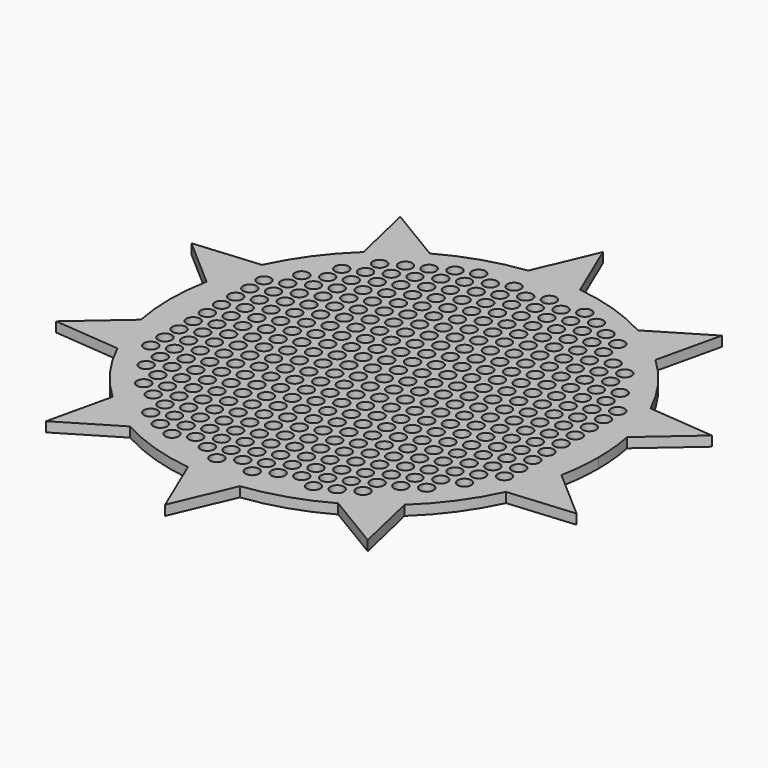
from build123d import *

# Parameters (mm, degrees)
F0_R     = 2.5
F1_DEPTH = 0.127
F3_R     = 0.0875
F4_DEPTH = 0.128


with BuildPart() as f1:
    # F0 (on Top) → F1 (new body)
    with BuildSketch(Plane.XY):
        with BuildLine():
            ThreePointArc((2.698999, -0.527168), (2.73722, -0.264814), (2.75, 0))
            ThreePointArc((2.75, 0), (2.73722, 0.264814), (2.698999, 0.527168))
            ThreePointArc((2.698999, 0.527168), (2.615405, 0.849797), (2.493397, 1.159944))
            ThreePointArc((2.493397, 1.159944), (2.224797, 1.616409), (1.873675, 2.012919))
            ThreePointArc((1.873675, 2.012919), (1.616409, 2.224797), (1.335403, 2.403997))
            ThreePointArc((1.335403, 2.403997), (0.849797, 2.615405), (0.33267, 2.729804))
            ThreePointArc((0.33267, 2.729804), (0, 2.75), (-0.33267, 2.729804))
            ThreePointArc((-0.33267, 2.729804), (-0.849797, 2.615405), (-1.335403, 2.403997))
            ThreePointArc((-1.335403, 2.403997), (-1.616409, 2.224797), (-1.873675, 2.012919))
            ThreePointArc((-1.873675, 2.012919), (-2.224797, 1.616409), (-2.493397, 1.159944))
            ThreePointArc((-2.493397, 1.159944), (-2.615405, 0.849797), (-2.698999, 0.527168))
            ThreePointArc((-2.698999, 0.527168), (-2.75, 0), (-2.698999, -0.527168))
            ThreePointArc((-2.698999, -0.527168), (-2.615405, -0.849797), (-2.493397, -1.159944))
            ThreePointArc((-2.493397, -1.159944), (-2.224797, -1.616409), (-1.873675, -2.012919))
            ThreePointArc((-1.873675, -2.012919), (-1.616409, -2.224797), (-1.335403, -2.403997))
            ThreePointArc((-1.335403, -2.403997), (-0.849797, -2.615405), (-0.33267, -2.729804))
            ThreePointArc((-0.33267, -2.729804), (0, -2.75), (0.33267, -2.729804))
            ThreePointArc((0.33267, -2.729804), (0.849797, -2.615405), (1.335403, -2.403997))
            ThreePointArc((1.335403, -2.403997), (1.616409, -2.224797), (1.873675, -2.012919))
            ThreePointArc((1.873675, -2.012919), (2.224797, -1.616409), (2.493397, -1.159944))
            ThreePointArc((2.493397, -1.159944), (2.615405, -0.849797), (2.698999, -0.527168))
        make_face()
        Circle(F0_R, mode=Mode.SUBTRACT)
        with BuildLine():
            ThreePointArc((2.493397, 1.159944), (2.615405, 0.849797), (2.698999, 0.527168))
            Line((2.698999, 0.527168), (3.34011, 1.085268))
            Line((3.34011, 1.085268), (2.493397, 1.159944))
        make_face()
        with BuildLine():
            Line((3.34011, -1.085268), (2.698999, -0.527168))
            ThreePointArc((2.698999, -0.527168), (2.615405, -0.849797), (2.493397, -1.159944))
            Line((2.493397, -1.159944), (3.34011, -1.085268))
        make_face()
        with BuildLine():
            ThreePointArc((1.335403, 2.403997), (1.616409, 2.224797), (1.873675, 2.012919))
            Line((1.873675, 2.012919), (2.064302, 2.841268))
            Line((2.064302, 2.841268), (1.335403, 2.403997))
        make_face()
        with BuildLine():
            Line((2.064302, -2.841268), (1.873675, -2.012919))
            ThreePointArc((1.873675, -2.012919), (1.616409, -2.224797), (1.335403, -2.403997))
            Line((1.335403, -2.403997), (2.064302, -2.841268))
        make_face()
        with BuildLine():
            ThreePointArc((-0.33267, 2.729804), (0, 2.75), (0.33267, 2.729804))
            Line((0.33267, 2.729804), (0, 3.512))
            Line((0, 3.512), (-0.33267, 2.729804))
        make_face()
        with BuildLine():
            Line((0, -3.512), (0.33267, -2.729804))
            ThreePointArc((0.33267, -2.729804), (0, -2.75), (-0.33267, -2.729804))
            Line((-0.33267, -2.729804), (0, -3.512))
        make_face()
        with BuildLine():
            ThreePointArc((-1.873675, 2.012919), (-1.616409, 2.224797), (-1.335403, 2.403997))
            Line((-1.335403, 2.403997), (-2.064302, 2.841268))
            Line((-2.064302, 2.841268), (-1.873675, 2.012919))
        make_face()
        with BuildLine():
            Line((-2.064302, -2.841268), (-1.335403, -2.403997))
            ThreePointArc((-1.335403, -2.403997), (-1.616409, -2.224797), (-1.873675, -2.012919))
            Line((-1.873675, -2.012919), (-2.064302, -2.841268))
        make_face()
        with BuildLine():
            ThreePointArc((-2.698999, 0.527168), (-2.615405, 0.849797), (-2.493397, 1.159944))
            Line((-2.493397, 1.159944), (-3.34011, 1.085268))
            Line((-3.34011, 1.085268), (-2.698999, 0.527168))
        make_face()
        with BuildLine():
            Line((-3.34011, -1.085268), (-2.493397, -1.159944))
            ThreePointArc((-2.493397, -1.159944), (-2.615405, -0.849797), (-2.698999, -0.527168))
            Line((-2.698999, -0.527168), (-3.34011, -1.085268))
        make_face()
        Circle(F0_R)
    extrude(amount=F1_DEPTH)

    # F3 (on offset) → F4 (cut, through all)
    with BuildSketch(Plane.XY.offset(0.127)):
        with Locations((-2.041752, 1.233616)):
            Circle(F3_R)
        with Locations((-2.041752, 1.006616)):
            Circle(F3_R)
        with Locations((-2.269084, 0.910866)):
            Circle(F3_R)
        with Locations((-2.041752, 0.779616)):
            Circle(F3_R)
        with Locations((-1.587752, 1.914616)):
            Circle(F3_R)
        with Locations((-1.587752, 1.687616)):
            Circle(F3_R)
        with Locations((-1.815084, 1.591866)):
            Circle(F3_R)
        with Locations((-1.587752, 1.460616)):
            Circle(F3_R)
        with Locations((-1.815084, 1.364866)):
            Circle(F3_R)
        with Locations((-1.587752, 1.233616)):
            Circle(F3_R)
        with Locations((-1.815084, 1.137866)):
            Circle(F3_R)
        with Locations((-1.587752, 1.006616)):
            Circle(F3_R)
        with Locations((-1.815084, 0.910866)):
            Circle(F3_R)
        with Locations((-1.587752, 0.779616)):
            Circle(F3_R)
        with Locations((-1.133752, 2.141616)):
            Circle(F3_R)
        with Locations((-1.361084, 2.045866)):
            Circle(F3_R)
        with Locations((-1.133752, 1.914616)):
            Circle(F3_R)
        with Locations((-1.361084, 1.818866)):
            Circle(F3_R)
        with Locations((-1.133752, 1.687616)):
            Circle(F3_R)
        with Locations((-1.361084, 1.591866)):
            Circle(F3_R)
        with Locations((-1.133752, 1.460616)):
            Circle(F3_R)
        with Locations((-1.361084, 1.364866)):
            Circle(F3_R)
        with Locations((-1.133752, 1.233616)):
            Circle(F3_R)
        with Locations((-1.361084, 1.137866)):
            Circle(F3_R)
        with Locations((-1.133752, 1.006616)):
            Circle(F3_R)
        with Locations((-1.361084, 0.910866)):
            Circle(F3_R)
        with Locations((-1.133752, 0.779616)):
            Circle(F3_R)
        with Locations((-0.679752, 2.368616)):
            Circle(F3_R)
        with Locations((-0.907084, 2.272866)):
            Circle(F3_R)
        with Locations((-0.679752, 2.141616)):
            Circle(F3_R)
        with Locations((-0.907084, 2.045866)):
            Circle(F3_R)
        with Locations((-0.679752, 1.914616)):
            Circle(F3_R)
        with Locations((-0.907084, 1.818866)):
            Circle(F3_R)
        with Locations((-0.679752, 1.687616)):
            Circle(F3_R)
        with Locations((-0.907084, 1.591866)):
            Circle(F3_R)
        with Locations((-0.679752, 1.460616)):
            Circle(F3_R)
        with Locations((-0.907084, 1.364866)):
            Circle(F3_R)
        with Locations((-0.679752, 1.233616)):
            Circle(F3_R)
        with Locations((-0.907084, 1.137866)):
            Circle(F3_R)
        with Locations((-0.679752, 1.006616)):
            Circle(F3_R)
        with Locations((-0.907084, 0.910866)):
            Circle(F3_R)
        with Locations((-0.679752, 0.779616)):
            Circle(F3_R)
        with Locations((-0.225752, 2.368616)):
            Circle(F3_R)
        with Locations((-0.453084, 2.272866)):
            Circle(F3_R)
        with Locations((-0.225752, 2.141616)):
            Circle(F3_R)
        with Locations((-0.453084, 2.045866)):
            Circle(F3_R)
        with Locations((-0.225752, 1.914616)):
            Circle(F3_R)
        with Locations((-0.453084, 1.818866)):
            Circle(F3_R)
        with Locations((-0.225752, 1.687616)):
            Circle(F3_R)
        with Locations((-0.453084, 1.591866)):
            Circle(F3_R)
        with Locations((-0.225752, 1.460616)):
            Circle(F3_R)
        with Locations((-0.453084, 1.364866)):
            Circle(F3_R)
        with Locations((-0.225752, 1.233616)):
            Circle(F3_R)
        with Locations((-0.453084, 1.137866)):
            Circle(F3_R)
        with Locations((-0.225752, 1.006616)):
            Circle(F3_R)
        with Locations((-0.453084, 0.910866)):
            Circle(F3_R)
        with Locations((-0.225752, 0.779616)):
            Circle(F3_R)
        with Locations((0.228248, 2.368616)):
            Circle(F3_R)
        with Locations((0.000916, 2.272866)):
            Circle(F3_R)
        with Locations((0.228248, 2.141616)):
            Circle(F3_R)
        with Locations((0.000916, 2.045866)):
            Circle(F3_R)
        with Locations((0.228248, 1.914616)):
            Circle(F3_R)
        with Locations((0.000916, 1.818866)):
            Circle(F3_R)
        with Locations((0.228248, 1.687616)):
            Circle(F3_R)
        with Locations((0.000916, 1.591866)):
            Circle(F3_R)
        with Locations((0.228248, 1.460616)):
            Circle(F3_R)
        with Locations((0.000916, 1.364866)):
            Circle(F3_R)
        with Locations((0.228248, 1.233616)):
            Circle(F3_R)
        with Locations((0.000916, 1.137866)):
            Circle(F3_R)
        with Locations((0.228248, 1.006616)):
            Circle(F3_R)
        with Locations((0.000916, 0.910866)):
            Circle(F3_R)
        with Locations((0.228248, 0.779616)):
            Circle(F3_R)
        with Locations((0.682248, 2.368616)):
            Circle(F3_R)
        with Locations((0.454916, 2.272866)):
            Circle(F3_R)
        with Locations((0.682248, 2.141616)):
            Circle(F3_R)
        with Locations((0.454916, 2.045866)):
            Circle(F3_R)
        with Locations((0.682248, 1.914616)):
            Circle(F3_R)
        with Locations((0.454916, 1.818866)):
            Circle(F3_R)
        with Locations((0.682248, 1.687616)):
            Circle(F3_R)
        with Locations((0.454916, 1.591866)):
            Circle(F3_R)
        with Locations((0.682248, 1.460616)):
            Circle(F3_R)
        with Locations((0.454916, 1.364866)):
            Circle(F3_R)
        with Locations((0.682248, 1.233616)):
            Circle(F3_R)
        with Locations((0.454916, 1.137866)):
            Circle(F3_R)
        with Locations((0.682248, 1.006616)):
            Circle(F3_R)
        with Locations((0.454916, 0.910866)):
            Circle(F3_R)
        with Locations((0.682248, 0.779616)):
            Circle(F3_R)
        with Locations((0.908916, 2.272866)):
            Circle(F3_R)
        with Locations((1.136248, 2.141616)):
            Circle(F3_R)
        with Locations((0.908916, 2.045866)):
            Circle(F3_R)
        with Locations((1.136248, 1.914616)):
            Circle(F3_R)
        with Locations((0.908916, 1.818866)):
            Circle(F3_R)
        with Locations((1.136248, 1.687616)):
            Circle(F3_R)
        with Locations((0.908916, 1.591866)):
            Circle(F3_R)
        with Locations((1.136248, 1.460616)):
            Circle(F3_R)
        with Locations((0.908916, 1.364866)):
            Circle(F3_R)
        with Locations((1.136248, 1.233616)):
            Circle(F3_R)
        with Locations((0.908916, 1.137866)):
            Circle(F3_R)
        with Locations((1.136248, 1.006616)):
            Circle(F3_R)
        with Locations((0.908916, 0.910866)):
            Circle(F3_R)
        with Locations((1.136248, 0.779616)):
            Circle(F3_R)
        with Locations((1.362916, 2.045866)):
            Circle(F3_R)
        with Locations((1.362916, 1.818866)):
            Circle(F3_R)
        with Locations((1.590248, 1.687616)):
            Circle(F3_R)
        with Locations((1.362916, 1.591866)):
            Circle(F3_R)
        with Locations((1.590248, 1.460616)):
            Circle(F3_R)
        with Locations((1.362916, 1.364866)):
            Circle(F3_R)
        with Locations((1.590248, 1.233616)):
            Circle(F3_R)
        with Locations((1.362916, 1.137866)):
            Circle(F3_R)
        with Locations((1.590248, 1.006616)):
            Circle(F3_R)
        with Locations((1.362916, 0.910866)):
            Circle(F3_R)
        with Locations((1.590248, 0.779616)):
            Circle(F3_R)
        with Locations((1.816916, 1.591866)):
            Circle(F3_R)
        with Locations((1.816916, 1.364866)):
            Circle(F3_R)
        with Locations((2.044248, 1.233616)):
            Circle(F3_R)
        with Locations((1.816916, 1.137866)):
            Circle(F3_R)
        with Locations((2.044248, 1.006616)):
            Circle(F3_R)
        with Locations((1.816916, 0.910866)):
            Circle(F3_R)
        with Locations((2.044248, 0.779616)):
            Circle(F3_R)
        with Locations((-2.269084, 0.683866)):
            Circle(F3_R)
        with Locations((-2.041752, 0.552616)):
            Circle(F3_R)
        with Locations((-2.269084, 0.456866)):
            Circle(F3_R)
        with Locations((-2.041752, 0.325616)):
            Circle(F3_R)
        with Locations((-2.269084, 0.229866)):
            Circle(F3_R)
        with Locations((-2.041752, 0.098616)):
            Circle(F3_R)
        with Locations((-2.269084, 0.002866)):
            Circle(F3_R)
        with Locations((-2.041752, -0.128384)):
            Circle(F3_R)
        with Locations((-2.269084, -0.224134)):
            Circle(F3_R)
        with Locations((-2.041752, -0.355384)):
            Circle(F3_R)
        with Locations((-2.269084, -0.451134)):
            Circle(F3_R)
        with Locations((-2.041752, -0.582384)):
            Circle(F3_R)
        with Locations((-2.269084, -0.678134)):
            Circle(F3_R)
        with Locations((-2.041752, -0.809384)):
            Circle(F3_R)
        with Locations((-2.269084, -0.905134)):
            Circle(F3_R)
        with Locations((-2.041752, -1.036384)):
            Circle(F3_R)
        with Locations((-2.041752, -1.263384)):
            Circle(F3_R)
        with Locations((-1.815084, 0.683866)):
            Circle(F3_R)
        with Locations((-1.587752, 0.552616)):
            Circle(F3_R)
        with Locations((-1.815084, 0.456866)):
            Circle(F3_R)
        with Locations((-1.587752, 0.325616)):
            Circle(F3_R)
        with Locations((-1.815084, 0.229866)):
            Circle(F3_R)
        with Locations((-1.587752, 0.098616)):
            Circle(F3_R)
        with Locations((-1.815084, 0.002866)):
            Circle(F3_R)
        with Locations((-1.587752, -0.128384)):
            Circle(F3_R)
        with Locations((-1.815084, -0.224134)):
            Circle(F3_R)
        with Locations((-1.587752, -0.355384)):
            Circle(F3_R)
        with Locations((-1.815084, -0.451134)):
            Circle(F3_R)
        with Locations((-1.587752, -0.582384)):
            Circle(F3_R)
        with Locations((-1.815084, -0.678134)):
            Circle(F3_R)
        with Locations((-1.587752, -0.809384)):
            Circle(F3_R)
        with Locations((-1.815084, -0.905134)):
            Circle(F3_R)
        with Locations((-1.587752, -1.036384)):
            Circle(F3_R)
        with Locations((-1.815084, -1.132134)):
            Circle(F3_R)
        with Locations((-1.587752, -1.263384)):
            Circle(F3_R)
        with Locations((-1.815084, -1.359134)):
            Circle(F3_R)
        with Locations((-1.587752, -1.490384)):
            Circle(F3_R)
        with Locations((-1.815084, -1.586134)):
            Circle(F3_R)
        with Locations((-1.587752, -1.717384)):
            Circle(F3_R)
        with Locations((-1.361084, 0.683866)):
            Circle(F3_R)
        with Locations((-1.133752, 0.552616)):
            Circle(F3_R)
        with Locations((-1.361084, 0.456866)):
            Circle(F3_R)
        with Locations((-1.133752, 0.325616)):
            Circle(F3_R)
        with Locations((-1.361084, 0.229866)):
            Circle(F3_R)
        with Locations((-1.133752, 0.098616)):
            Circle(F3_R)
        with Locations((-1.361084, 0.002866)):
            Circle(F3_R)
        with Locations((-1.133752, -0.128384)):
            Circle(F3_R)
        with Locations((-1.361084, -0.224134)):
            Circle(F3_R)
        with Locations((-1.133752, -0.355384)):
            Circle(F3_R)
        with Locations((-1.361084, -0.451134)):
            Circle(F3_R)
        with Locations((-1.133752, -0.582384)):
            Circle(F3_R)
        with Locations((-1.361084, -0.678134)):
            Circle(F3_R)
        with Locations((-1.133752, -0.809384)):
            Circle(F3_R)
        with Locations((-1.361084, -0.905134)):
            Circle(F3_R)
        with Locations((-1.133752, -1.036384)):
            Circle(F3_R)
        with Locations((-1.361084, -1.132134)):
            Circle(F3_R)
        with Locations((-1.133752, -1.263384)):
            Circle(F3_R)
        with Locations((-1.361084, -1.359134)):
            Circle(F3_R)
        with Locations((-1.133752, -1.490384)):
            Circle(F3_R)
        with Locations((-1.361084, -1.586134)):
            Circle(F3_R)
        with Locations((-1.133752, -1.717384)):
            Circle(F3_R)
        with Locations((-0.907084, 0.683866)):
            Circle(F3_R)
        with Locations((-0.679752, 0.552616)):
            Circle(F3_R)
        with Locations((-0.907084, 0.456866)):
            Circle(F3_R)
        with Locations((-0.679752, 0.325616)):
            Circle(F3_R)
        with Locations((-0.907084, 0.229866)):
            Circle(F3_R)
        with Locations((-0.679752, 0.098616)):
            Circle(F3_R)
        with Locations((-0.907084, 0.002866)):
            Circle(F3_R)
        with Locations((-0.679752, -0.128384)):
            Circle(F3_R)
        with Locations((-0.907084, -0.224134)):
            Circle(F3_R)
        with Locations((-0.679752, -0.355384)):
            Circle(F3_R)
        with Locations((-0.907084, -0.451134)):
            Circle(F3_R)
        with Locations((-0.679752, -0.582384)):
            Circle(F3_R)
        with Locations((-0.907084, -0.678134)):
            Circle(F3_R)
        with Locations((-0.679752, -0.809384)):
            Circle(F3_R)
        with Locations((-0.907084, -0.905134)):
            Circle(F3_R)
        with Locations((-0.679752, -1.036384)):
            Circle(F3_R)
        with Locations((-0.907084, -1.132134)):
            Circle(F3_R)
        with Locations((-0.679752, -1.263384)):
            Circle(F3_R)
        with Locations((-0.907084, -1.359134)):
            Circle(F3_R)
        with Locations((-0.679752, -1.490384)):
            Circle(F3_R)
        with Locations((-0.907084, -1.586134)):
            Circle(F3_R)
        with Locations((-0.679752, -1.717384)):
            Circle(F3_R)
        with Locations((-0.453084, 0.683866)):
            Circle(F3_R)
        with Locations((-0.225752, 0.552616)):
            Circle(F3_R)
        with Locations((-0.453084, 0.456866)):
            Circle(F3_R)
        with Locations((-0.225752, 0.325616)):
            Circle(F3_R)
        with Locations((-0.453084, 0.229866)):
            Circle(F3_R)
        with Locations((-0.225752, 0.098616)):
            Circle(F3_R)
        with Locations((-0.453084, 0.002866)):
            Circle(F3_R)
        with Locations((-0.225752, -0.128384)):
            Circle(F3_R)
        with Locations((-0.453084, -0.224134)):
            Circle(F3_R)
        with Locations((-0.225752, -0.355384)):
            Circle(F3_R)
        with Locations((-0.453084, -0.451134)):
            Circle(F3_R)
        with Locations((-0.225752, -0.582384)):
            Circle(F3_R)
        with Locations((-0.453084, -0.678134)):
            Circle(F3_R)
        with Locations((-0.225752, -0.809384)):
            Circle(F3_R)
        with Locations((-0.453084, -0.905134)):
            Circle(F3_R)
        with Locations((-0.225752, -1.036384)):
            Circle(F3_R)
        with Locations((-0.453084, -1.132134)):
            Circle(F3_R)
        with Locations((-0.225752, -1.263384)):
            Circle(F3_R)
        with Locations((-0.453084, -1.359134)):
            Circle(F3_R)
        with Locations((-0.225752, -1.490384)):
            Circle(F3_R)
        with Locations((-0.453084, -1.586134)):
            Circle(F3_R)
        with Locations((-0.225752, -1.717384)):
            Circle(F3_R)
        with Locations((0.000916, 0.683866)):
            Circle(F3_R)
        with Locations((0.228248, 0.552616)):
            Circle(F3_R)
        with Locations((0.000916, 0.456866)):
            Circle(F3_R)
        with Locations((0.228248, 0.325616)):
            Circle(F3_R)
        with Locations((0.000916, 0.229866)):
            Circle(F3_R)
        with Locations((0.228248, 0.098616)):
            Circle(F3_R)
        with Locations((0.000916, 0.002866)):
            Circle(F3_R)
        with Locations((0.228248, -0.128384)):
            Circle(F3_R)
        with Locations((0.000916, -0.224134)):
            Circle(F3_R)
        with Locations((0.228248, -0.355384)):
            Circle(F3_R)
        with Locations((0.000916, -0.451134)):
            Circle(F3_R)
        with Locations((0.228248, -0.582384)):
            Circle(F3_R)
        with Locations((0.000916, -0.678134)):
            Circle(F3_R)
        with Locations((0.228248, -0.809384)):
            Circle(F3_R)
        with Locations((0.000916, -0.905134)):
            Circle(F3_R)
        with Locations((0.228248, -1.036384)):
            Circle(F3_R)
        with Locations((0.000916, -1.132134)):
            Circle(F3_R)
        with Locations((0.228248, -1.263384)):
            Circle(F3_R)
        with Locations((0.000916, -1.359134)):
            Circle(F3_R)
        with Locations((0.228248, -1.490384)):
            Circle(F3_R)
        with Locations((0.000916, -1.586134)):
            Circle(F3_R)
        with Locations((0.228248, -1.717384)):
            Circle(F3_R)
        with Locations((0.454916, 0.683866)):
            Circle(F3_R)
        with Locations((0.682248, 0.552616)):
            Circle(F3_R)
        with Locations((0.454916, 0.456866)):
            Circle(F3_R)
        with Locations((0.682248, 0.325616)):
            Circle(F3_R)
        with Locations((0.454916, 0.229866)):
            Circle(F3_R)
        with Locations((0.682248, 0.098616)):
            Circle(F3_R)
        with Locations((0.454916, 0.002866)):
            Circle(F3_R)
        with Locations((0.682248, -0.128384)):
            Circle(F3_R)
        with Locations((0.454916, -0.224134)):
            Circle(F3_R)
        with Locations((0.682248, -0.355384)):
            Circle(F3_R)
        with Locations((0.454916, -0.451134)):
            Circle(F3_R)
        with Locations((0.682248, -0.582384)):
            Circle(F3_R)
        with Locations((0.454916, -0.678134)):
            Circle(F3_R)
        with Locations((0.682248, -0.809384)):
            Circle(F3_R)
        with Locations((0.454916, -0.905134)):
            Circle(F3_R)
        with Locations((0.682248, -1.036384)):
            Circle(F3_R)
        with Locations((0.454916, -1.132134)):
            Circle(F3_R)
        with Locations((0.682248, -1.263384)):
            Circle(F3_R)
        with Locations((0.454916, -1.359134)):
            Circle(F3_R)
        with Locations((0.682248, -1.490384)):
            Circle(F3_R)
        with Locations((0.454916, -1.586134)):
            Circle(F3_R)
        with Locations((0.682248, -1.717384)):
            Circle(F3_R)
        with Locations((0.908916, 0.683866)):
            Circle(F3_R)
        with Locations((1.136248, 0.552616)):
            Circle(F3_R)
        with Locations((0.908916, 0.456866)):
            Circle(F3_R)
        with Locations((1.136248, 0.325616)):
            Circle(F3_R)
        with Locations((0.908916, 0.229866)):
            Circle(F3_R)
        with Locations((1.136248, 0.098616)):
            Circle(F3_R)
        with Locations((0.908916, 0.002866)):
            Circle(F3_R)
        with Locations((1.136248, -0.128384)):
            Circle(F3_R)
        with Locations((0.908916, -0.224134)):
            Circle(F3_R)
        with Locations((1.136248, -0.355384)):
            Circle(F3_R)
        with Locations((0.908916, -0.451134)):
            Circle(F3_R)
        with Locations((1.136248, -0.582384)):
            Circle(F3_R)
        with Locations((0.908916, -0.678134)):
            Circle(F3_R)
        with Locations((1.136248, -0.809384)):
            Circle(F3_R)
        with Locations((0.908916, -0.905134)):
            Circle(F3_R)
        with Locations((1.136248, -1.036384)):
            Circle(F3_R)
        with Locations((0.908916, -1.132134)):
            Circle(F3_R)
        with Locations((1.136248, -1.263384)):
            Circle(F3_R)
        with Locations((0.908916, -1.359134)):
            Circle(F3_R)
        with Locations((1.136248, -1.490384)):
            Circle(F3_R)
        with Locations((0.908916, -1.586134)):
            Circle(F3_R)
        with Locations((1.136248, -1.717384)):
            Circle(F3_R)
        with Locations((1.362916, 0.683866)):
            Circle(F3_R)
        with Locations((1.590248, 0.552616)):
            Circle(F3_R)
        with Locations((1.362916, 0.456866)):
            Circle(F3_R)
        with Locations((1.590248, 0.325616)):
            Circle(F3_R)
        with Locations((1.362916, 0.229866)):
            Circle(F3_R)
        with Locations((1.590248, 0.098616)):
            Circle(F3_R)
        with Locations((1.362916, 0.002866)):
            Circle(F3_R)
        with Locations((1.590248, -0.128384)):
            Circle(F3_R)
        with Locations((1.362916, -0.224134)):
            Circle(F3_R)
        with Locations((1.590248, -0.355384)):
            Circle(F3_R)
        with Locations((1.362916, -0.451134)):
            Circle(F3_R)
        with Locations((1.590248, -0.582384)):
            Circle(F3_R)
        with Locations((1.362916, -0.678134)):
            Circle(F3_R)
        with Locations((1.590248, -0.809384)):
            Circle(F3_R)
        with Locations((1.362916, -0.905134)):
            Circle(F3_R)
        with Locations((1.590248, -1.036384)):
            Circle(F3_R)
        with Locations((1.362916, -1.132134)):
            Circle(F3_R)
        with Locations((1.590248, -1.263384)):
            Circle(F3_R)
        with Locations((1.362916, -1.359134)):
            Circle(F3_R)
        with Locations((1.590248, -1.490384)):
            Circle(F3_R)
        with Locations((1.362916, -1.586134)):
            Circle(F3_R)
        with Locations((1.590248, -1.717384)):
            Circle(F3_R)
        with Locations((1.816916, 0.683866)):
            Circle(F3_R)
        with Locations((2.044248, 0.552616)):
            Circle(F3_R)
        with Locations((1.816916, 0.456866)):
            Circle(F3_R)
        with Locations((2.044248, 0.325616)):
            Circle(F3_R)
        with Locations((1.816916, 0.229866)):
            Circle(F3_R)
        with Locations((2.044248, 0.098616)):
            Circle(F3_R)
        with Locations((1.816916, 0.002866)):
            Circle(F3_R)
        with Locations((2.044248, -0.128384)):
            Circle(F3_R)
        with Locations((1.816916, -0.224134)):
            Circle(F3_R)
        with Locations((2.044248, -0.355384)):
            Circle(F3_R)
        with Locations((1.816916, -0.451134)):
            Circle(F3_R)
        with Locations((2.044248, -0.582384)):
            Circle(F3_R)
        with Locations((1.816916, -0.678134)):
            Circle(F3_R)
        with Locations((2.044248, -0.809384)):
            Circle(F3_R)
        with Locations((1.816916, -0.905134)):
            Circle(F3_R)
        with Locations((2.044248, -1.036384)):
            Circle(F3_R)
        with Locations((1.816916, -1.132134)):
            Circle(F3_R)
        with Locations((2.044248, -1.263384)):
            Circle(F3_R)
        with Locations((1.816916, -1.359134)):
            Circle(F3_R)
        with Locations((1.816916, -1.586134)):
            Circle(F3_R)
        with Locations((2.270916, 0.910866)):
            Circle(F3_R)
        with Locations((2.270916, 0.683866)):
            Circle(F3_R)
        with Locations((2.270916, 0.456866)):
            Circle(F3_R)
        with Locations((2.270916, 0.229866)):
            Circle(F3_R)
        with Locations((2.270916, 0.002866)):
            Circle(F3_R)
        with Locations((2.270916, -0.224134)):
            Circle(F3_R)
        with Locations((2.270916, -0.451134)):
            Circle(F3_R)
        with Locations((2.270916, -0.678134)):
            Circle(F3_R)
        with Locations((2.270916, -0.905134)):
            Circle(F3_R)
        with Locations((-1.361084, -1.813134)):
            Circle(F3_R)
        with Locations((-1.133752, -1.944384)):
            Circle(F3_R)
        with Locations((-1.361084, -2.040134)):
            Circle(F3_R)
        with Locations((-1.133752, -2.171384)):
            Circle(F3_R)
        with Locations((-0.907084, -1.813134)):
            Circle(F3_R)
        with Locations((-0.679752, -1.944384)):
            Circle(F3_R)
        with Locations((-0.907084, -2.040134)):
            Circle(F3_R)
        with Locations((-0.679752, -2.171384)):
            Circle(F3_R)
        with Locations((-0.907084, -2.267134)):
            Circle(F3_R)
        with Locations((-0.453084, -1.813134)):
            Circle(F3_R)
        with Locations((-0.225752, -1.944384)):
            Circle(F3_R)
        with Locations((-0.453084, -2.040134)):
            Circle(F3_R)
        with Locations((-0.225752, -2.171384)):
            Circle(F3_R)
        with Locations((-0.453084, -2.267134)):
            Circle(F3_R)
        with Locations((-0.225752, -2.398384)):
            Circle(F3_R)
        with Locations((0.000916, -1.813134)):
            Circle(F3_R)
        with Locations((0.228248, -1.944384)):
            Circle(F3_R)
        with Locations((0.000916, -2.040134)):
            Circle(F3_R)
        with Locations((0.228248, -2.171384)):
            Circle(F3_R)
        with Locations((0.000916, -2.267134)):
            Circle(F3_R)
        with Locations((0.228248, -2.398384)):
            Circle(F3_R)
        with Locations((0.454916, -1.813134)):
            Circle(F3_R)
        with Locations((0.682248, -1.944384)):
            Circle(F3_R)
        with Locations((0.454916, -2.040134)):
            Circle(F3_R)
        with Locations((0.682248, -2.171384)):
            Circle(F3_R)
        with Locations((0.454916, -2.267134)):
            Circle(F3_R)
        with Locations((0.908916, -1.813134)):
            Circle(F3_R)
        with Locations((1.136248, -1.944384)):
            Circle(F3_R)
        with Locations((0.908916, -2.040134)):
            Circle(F3_R)
        with Locations((1.136248, -2.171384)):
            Circle(F3_R)
        with Locations((0.908916, -2.267134)):
            Circle(F3_R)
        with Locations((1.362916, -1.813134)):
            Circle(F3_R)
        with Locations((1.362916, -2.040134)):
            Circle(F3_R)
    extrude(amount=-F4_DEPTH, mode=Mode.SUBTRACT)


solid = f1.part
